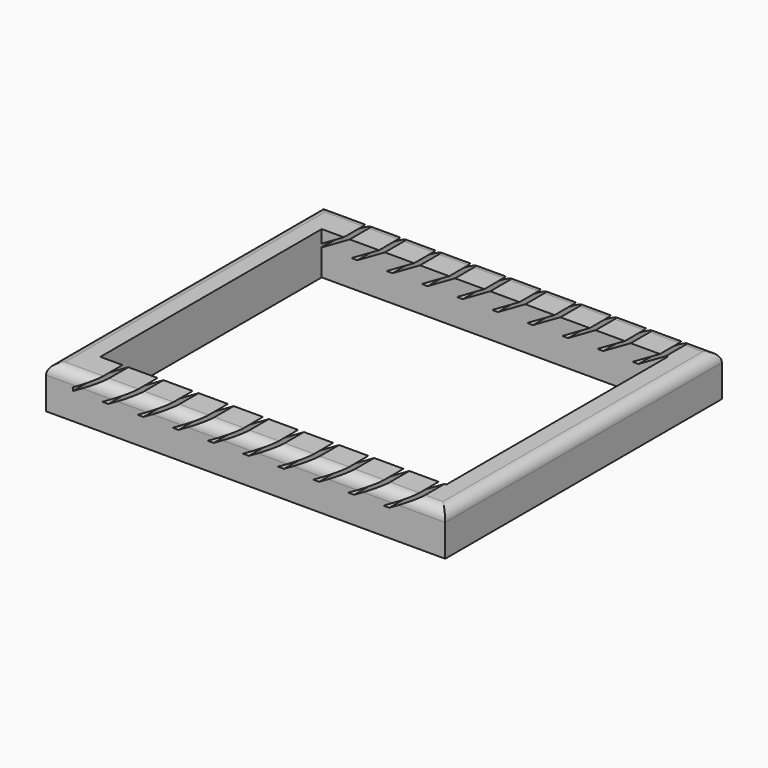
from build123d import *

# Parameters (mm, degrees)
F0_W     = 75
F0_H     = 65
F1_DEPTH = 8
F2_R     = 2
F3_W     = 65
F3_H     = 52
F4_DEPTH = 8.001
F7_DEPTH = 6.501
F8_DEPTH = 6.501


with BuildPart() as f1:
    # F0 (on Top) → F1 (new body)
    with BuildSketch(Plane.XY):
        Rectangle(F0_W, F0_H)
    extrude(amount=F1_DEPTH)

    # F2
    f2_edges = [f1.edges().sort_by_distance(p)[0] for p in [
        (0, -32.5, 8),
        (37.5, 0, 8),
        (0, 32.5, 8),
        (-37.5, 0, 8),
    ]]
    fillet(f2_edges, radius=F2_R)

    # F3 (on face) → F4 (cut, through all)
    with BuildSketch(Plane.XY.offset(8)):
        Rectangle(F3_W, F3_H)
    extrude(amount=-F4_DEPTH, mode=Mode.SUBTRACT)

    # F5 (on face) → F7 (cut, through all)
    with BuildSketch(Plane.XZ.offset(-26)):
        Polygon((-27.241326, 8), (-28.341326, 8), (-32.5, 5.598989), (-32.5, 5.021638), (-32.4, 5.021638), align=None)
        Polygon((-20.641326, 8), (-21.741326, 8), (-26.9, 5.021638), (-25.8, 5.021638), align=None)
        Polygon((-14.041326, 8), (-15.141326, 8), (-20.3, 5.021638), (-19.2, 5.021638), align=None)
        Polygon((-7.441326, 8), (-8.541326, 8), (-13.7, 5.021638), (-12.6, 5.021638), align=None)
        Polygon((-0.841326, 8), (-1.941326, 8), (-7.1, 5.021638), (-6, 5.021638), align=None)
        Polygon((5.758674, 8), (4.658674, 8), (-0.5, 5.021638), (0.6, 5.021638), align=None)
        Polygon((12.358674, 8), (11.258674, 8), (6.1, 5.021638), (7.2, 5.021638), align=None)
        Polygon((13.8, 5.021638), (18.958674, 8), (17.858674, 8), (12.7, 5.021638), align=None)
        Polygon((20.4, 5.021638), (25.558674, 8), (24.458674, 8), (19.3, 5.021638), align=None)
        Polygon((27, 5.021638), (32.158674, 8), (31.058674, 8), (25.9, 5.021638), align=None)
    extrude(amount=-F7_DEPTH, mode=Mode.SUBTRACT)

    # F6 (on face) → F8 (cut, through all)
    with BuildSketch(Plane(origin=(0, -26, 0), x_dir=(-1, 0, 0), z_dir=(0, 1, 0))):
        Polygon((32.5, 5.598989), (28.341326, 8), (27.241326, 8), (32.45, 4.992771), align=None)
        Polygon((26.9, 5.021638), (21.741326, 8), (20.641326, 8), (25.8, 5.021638), align=None)
        Polygon((20.3, 5.021638), (15.141326, 8), (14.041326, 8), (19.2, 5.021638), align=None)
        Polygon((13.7, 5.021638), (8.541326, 8), (7.441326, 8), (12.6, 5.021638), align=None)
        Polygon((7.1, 5.021638), (1.941326, 8), (0.841326, 8), (6, 5.021638), align=None)
        Polygon((0.5, 5.021638), (-4.658674, 8), (-5.758674, 8), (-0.6, 5.021638), align=None)
        Polygon((-11.258674, 8), (-12.358674, 8), (-7.2, 5.021638), (-6.1, 5.021638), align=None)
        Polygon((-17.858674, 8), (-18.958674, 8), (-13.8, 5.021638), (-12.7, 5.021638), align=None)
        Polygon((-24.458674, 8), (-25.558674, 8), (-20.4, 5.021638), (-19.3, 5.021638), align=None)
        Polygon((-31.058674, 8), (-32.158674, 8), (-27, 5.021638), (-25.9, 5.021638), align=None)
    extrude(amount=-F8_DEPTH, mode=Mode.SUBTRACT)


solid = f1.part
